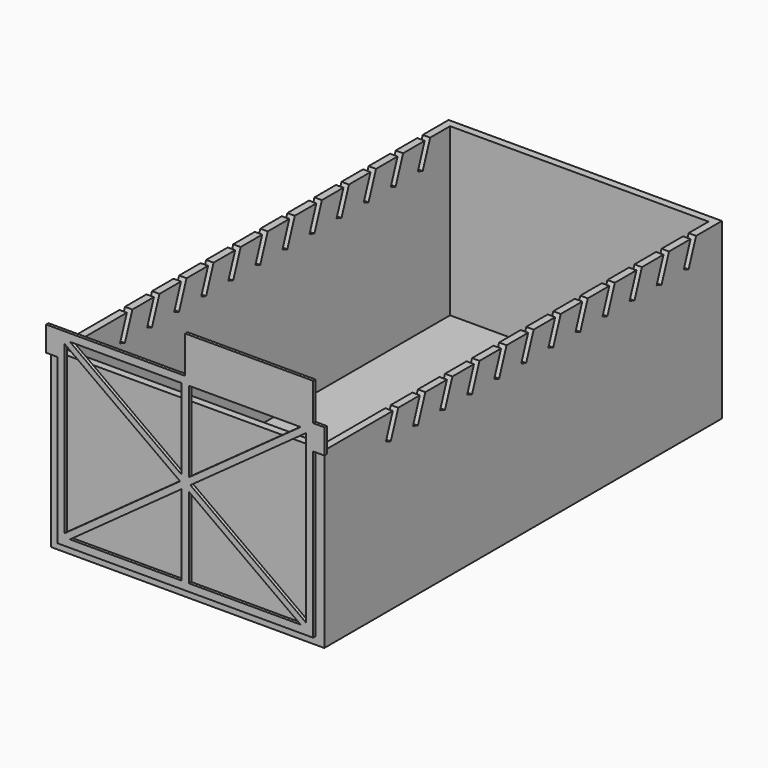
from build123d import *

# Parameters (mm, degrees)
F0_W     = 110
F0_H     = 200
F1_DEPTH = 70
F2_T     = -3
F5_DEPTH = 110.001
F3_W     = 3
F3_H     = 6
F6_DEPTH = 1.2


with BuildPart() as f1:
    # F0 (on Top) → F1 (new body)
    with BuildSketch(Plane.XY):
        with Locations((-55, 100)):
            Rectangle(F0_W, F0_H)
    extrude(amount=F1_DEPTH)

    # F2
    f2_openings = [f1.faces().sort_by_distance(p)[0] for p in [
        (-55, 100, 70),
    ]]
    offset(amount=F2_T, openings=f2_openings)

    # F4 (on face) → F5 (cut, through all)
    with BuildSketch(Plane.YZ):
        Polygon((183.2377784234, 59.6633811714), (187, 70), (184.2331377916, 70), (180.7945776094, 60.552633544), align=None)
        Polygon((170.615448918, 70), (167.1768887358, 60.552633544), (169.6200895498, 59.6633811714), (173.3823111264, 70), align=None)
        Polygon((156.9977600444, 70), (153.5591998622, 60.552633544), (156.0024006762, 59.6633811714), (159.7646222528, 70), align=None)
        Polygon((143.3800711708, 70), (139.9415109886, 60.552633544), (142.3847118027, 59.6633811714), (146.1469333793, 70), align=None)
        Polygon((129.7623822972, 70), (126.323822115, 60.552633544), (128.7670229291, 59.6633811714), (132.5292445057, 70), align=None)
        Polygon((116.1446934237, 70), (112.7061332415, 60.552633544), (115.1493340555, 59.6633811714), (118.9115556321, 70), align=None)
        Polygon((102.5270045501, 70), (99.0884443679, 60.552633544), (101.5316451819, 59.6633811714), (105.2938667585, 70), align=None)
        Polygon((88.9093156765, 70), (85.4707554943, 60.552633544), (87.9139563084, 59.6633811714), (91.676177885, 70), align=None)
        Polygon((75.2916268029, 70), (71.8530666207, 60.552633544), (74.2962674348, 59.6633811714), (78.0584890114, 70), align=None)
        Polygon((61.6739379294, 70), (58.2353777472, 60.552633544), (60.6785785612, 59.6633811714), (64.4408001378, 70), align=None)
        Polygon((48.0562490558, 70), (44.6176888736, 60.552633544), (47.0608896876, 59.6633811714), (50.8231112642, 70), align=None)
        Polygon((34.4385601822, 70), (31, 60.552633544), (33.443200814, 59.6633811714), (37.2054223906, 70), align=None)
    extrude(amount=-F5_DEPTH, mode=Mode.SUBTRACT)


with BuildPart() as f6:
    # F3 (on face) → F6 (new body)
    with BuildSketch(Plane.XZ):
        Polygon((-55, 79), (-106.5, 79), (-111, 79), (-111, 69), (-110, 69), (-110, 70), (-103.5, 70), (-103.5, 74.4984656638), (-103.5, 76), (-101.4193024199, 76), (-56.5, 76), (-53.5, 76), (-8.5806975801, 76), (-6.5, 76), (-6.5, 74.4984656638), (-6.5, 70), (0, 70), (0, 69), (1, 69), (1, 79), (-3.5, 79), (-3.5, 94), (-55, 94), align=None)
        Polygon((-110, 70), (-110, 69), (-106.5, 69), (-106.5, 3), (-3.5, 3), (-3.5, 69), (0, 69), (0, 70), (-6.5, 70), (-6.5, 7.5015343362), (-6.5, 6), (-8.5806975801, 6), (-53.5, 6), (-56.5, 6), (-101.4193024199, 6), (-103.5, 6), (-103.5, 7.5015343362), (-103.5, 70), align=None)
        Polygon((-57.0806975801, 41), (-103.5, 7.5015343362), (-103.5, 6), (-101.4193024199, 6), (-56.5, 38.415991437), (-56.5, 40.5809398906), align=None)
        Polygon((-56.5, 43.584008563), (-56.5, 41.4190601094), (-55, 42.5015343362), align=None)
        Polygon((-52.9193024199, 41), (-12.7335881342, 70), (-16.8949832944, 70), (-53.5, 43.584008563), (-53.5, 41.4190601094), align=None)
        Polygon((-52.9193024199, 41), (-53.5, 41.4190601094), (-53.5, 40.5809398906), align=None)
        Polygon((-6.5, 6), (-6.5, 7.5015343362), (-52.9193024199, 41), (-53.5, 40.5809398906), (-53.5, 38.415991437), (-8.5806975801, 6), align=None)
        Polygon((-12.7335881342, 70), (-6.5, 74.4984656638), (-6.5, 76), (-8.5806975801, 76), (-16.8949832944, 70), align=None)
        Polygon((-103.5, 76), (-103.5, 74.4984656638), (-97.2664118658, 70), (-93.1050167056, 70), (-101.4193024199, 76), align=None)
        Polygon((-93.1050167056, 70), (-97.2664118658, 70), (-57.0806975801, 41), (-56.5, 41.4190601094), (-56.5, 43.584008563), align=None)
        Polygon((-56.5, 70), (-56.5, 43.584008563), (-55, 42.5015343362), (-53.5, 43.584008563), (-53.5, 70), align=None)
        with Locations((-55, 73)):
            Rectangle(F3_W, F3_H)
        Polygon((-56.5, 38.415991437), (-56.5, 6), (-53.5, 6), (-53.5, 38.415991437), (-55, 39.4984656638), align=None)
        Polygon((-55, 42.5015343362), (-56.5, 41.4190601094), (-56.5, 40.5809398906), (-55, 39.4984656638), (-53.5, 40.5809398906), (-53.5, 41.4190601094), align=None)
        Polygon((-53.5, 40.5809398906), (-55, 39.4984656638), (-53.5, 38.415991437), align=None)
        Polygon((-53.5, 43.584008563), (-55, 42.5015343362), (-53.5, 41.4190601094), align=None)
        Polygon((-55, 39.4984656638), (-56.5, 40.5809398906), (-56.5, 38.415991437), align=None)
        Polygon((-56.5, 41.4190601094), (-57.0806975801, 41), (-56.5, 40.5809398906), align=None)
    extrude(amount=F6_DEPTH)


solid = Compound([f1.part, f6.part])
